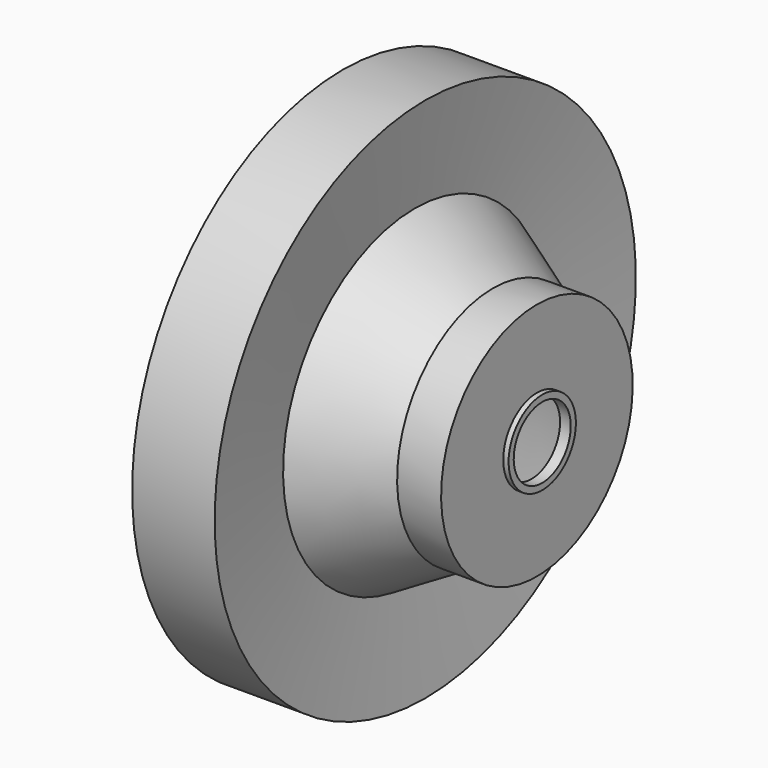
from build123d import *


with BuildPart() as f1:
    # F0 (on Front) → F1 (revolve)
    with BuildSketch(Plane.XZ):
        Polygon((0, 98.575), (0, 0), (3.8, 0), (3.8, 90.575), (28.04815, 90.575), (24.9, 60.622358), (55.69609, 42.842227), (70.7, 42.842227), (70.7, 13.35), (74.7, 13.35), (74.7, 15.75), (72.7, 15.75), (72.7, 44.842227), (56.231989, 44.842227), (27.024807, 61.705001), (30.9, 98.575), align=None)
    revolve(axis=Axis((1.9, 0, 0), (-1, 0, 0)))


solid = f1.part
